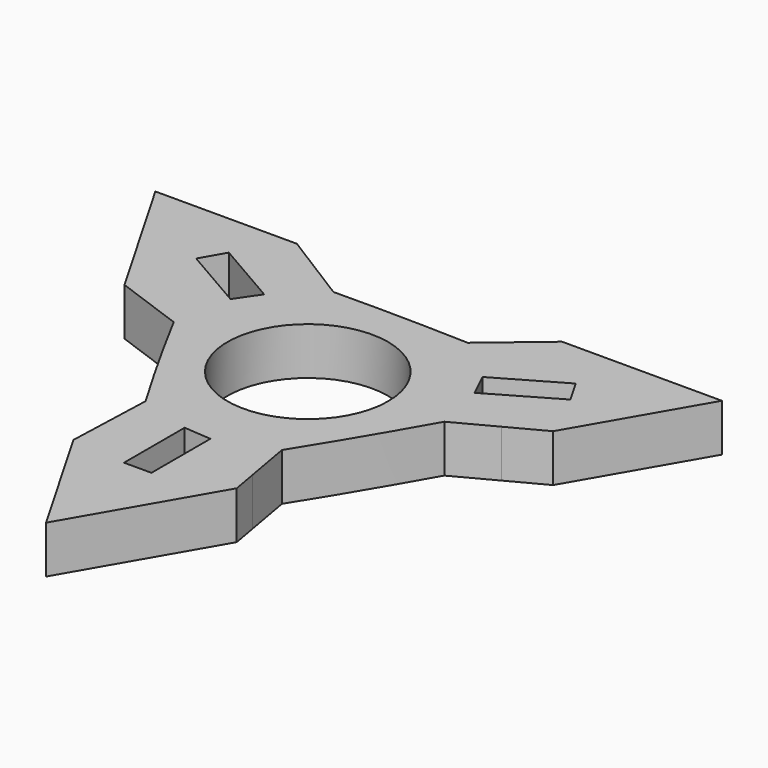
from build123d import *

# Parameters (mm, degrees)
F0_R     = 11.15
F1_DEPTH = 6.585
F3_DEPTH = 25


with BuildPart() as f1:
    # F0 (on Top) → F1 (new body)
    with BuildSketch(Plane.XY):
        with BuildLine():
            Line((-9.824942, -28.391755), (0, -45.409054))
            Line((0, -45.409054), (11.093962, -26.193747))
            Line((11.093962, -26.193747), (10.476884, -22.719322))
            Line((10.476884, -22.719322), (9.30388, -16.114792))
            ThreePointArc((9.30388, -16.114792), (14.198421, -8.08372), (18.898248, 0.062829))
            Line((18.898248, 0.062829), (24.486244, 3.027224))
            Line((24.486244, 3.027224), (29.500452, 5.687228))
            Line((29.500452, 5.687228), (39.325394, 22.704527))
            Line((39.325394, 22.704527), (17.137469, 22.704527))
            Line((17.137469, 22.704527), (9.30388, 16.114792))
            ThreePointArc((9.30388, 16.114792), (-0.098503, 16.338053), (-9.503536, 16.334949))
            Line((-9.503536, 16.334949), (-19.67551, 22.704527))
            Line((-19.67551, 22.704527), (-39.325394, 22.704527))
            Line((-39.325394, 22.704527), (-28.231432, 3.48922))
            Line((-28.231432, 3.48922), (-18.607759, 0))
            ThreePointArc((-18.607759, 0), (-14.099918, -8.254333), (-9.394713, -16.397778))
            Line((-9.394713, -16.397778), (-9.824942, -28.391755))
        make_face()
        Circle(F0_R, mode=Mode.SUBTRACT)
    extrude(amount=F1_DEPTH)

    # F2 (on face) → F3 (cut)
    with BuildSketch(Plane(origin=(0, 0, 0), x_dir=(1, 0, 0), z_dir=(0, 0, -1))):
        Polygon((-2.199187, 29.137347), (-2.199187, 18.615887), (1.608272, 18.904826), (1.608272, 29.137347), align=None)
        Polygon((-24.134089, -16.473225), (-15.022237, -11.212495), (-17.176195, -8.059608), (-26.037819, -13.175869), align=None)
        Polygon((26.333276, -12.664122), (17.221424, -7.403392), (15.567923, -10.845217), (24.429547, -15.961478), align=None)
    extrude(amount=-F3_DEPTH, mode=Mode.SUBTRACT)


solid = f1.part
